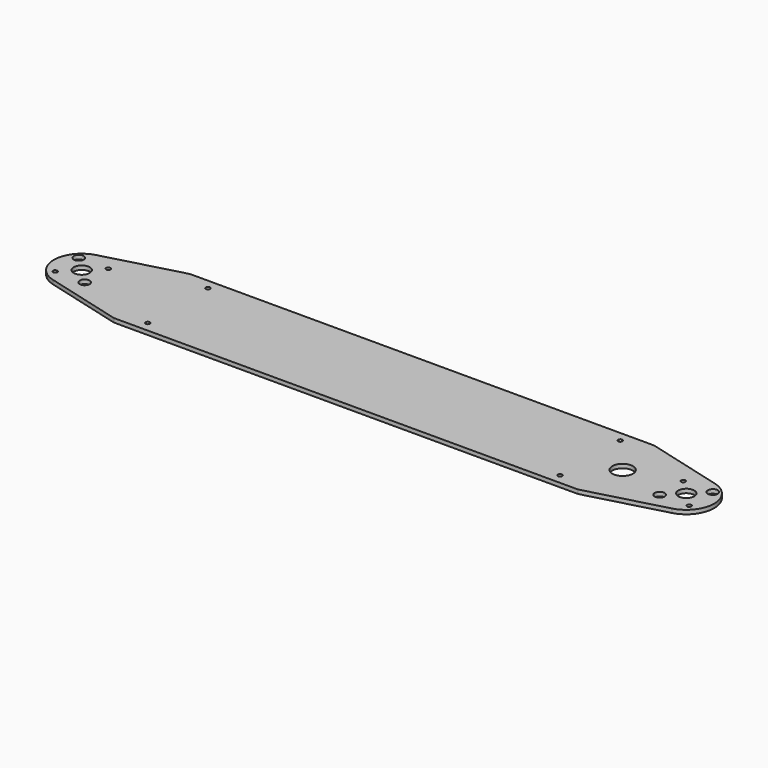
from build123d import *

# Parameters (mm, degrees)
F0_R     = 1.7272
F0_R_2   = 3.96875
F0_R_3   = 6.35
F0_R_4   = 8.221183
F1_DEPTH = 3.175


with BuildPart() as f1:
    # F0 (on Top) → F1 (new body)
    with BuildSketch(Plane.XY):
        with BuildLine():
            Line((-426.540354, 38.03015), (-488.352253, 21.467701))
            ThreePointArc((-488.352253, 21.467701), (-504.825, 0), (-488.352253, -21.467701))
            Line((-488.352253, -21.467701), (-426.540354, -38.03015))
            Line((-426.540354, -38.03015), (-420.190354, -38.03015))
            Line((-420.190354, -38.03015), (-62.409646, -38.03015))
            Line((-62.409646, -38.03015), (-56.059646, -38.03015))
            Line((-56.059646, -38.03015), (5.752253, -21.467701))
            ThreePointArc((5.752253, -21.467701), (22.225, 0), (5.752253, 21.467701))
            Line((5.752253, 21.467701), (-56.059646, 38.03015))
            Line((-56.059646, 38.03015), (-62.409646, 38.03015))
            Line((-62.409646, 38.03015), (-420.190354, 38.03015))
            Line((-420.190354, 38.03015), (-426.540354, 38.03015))
        make_face()
        with Locations((-405.902854, -30.09265)):
            Circle(F0_R, mode=Mode.SUBTRACT)
        with Locations((-494.386586, -11.786586)):
            Circle(F0_R, mode=Mode.SUBTRACT)
        with Locations((-470.813414, -11.786586)):
            Circle(F0_R_2, mode=Mode.SUBTRACT)
        with Locations((-76.697146, -30.09265)):
            Circle(F0_R, mode=Mode.SUBTRACT)
        with Locations((-11.786586, -11.786586)):
            Circle(F0_R_2, mode=Mode.SUBTRACT)
        with Locations((11.786586, -11.786586)):
            Circle(F0_R, mode=Mode.SUBTRACT)
        with Locations((-482.6, 0)):
            Circle(F0_R_3, mode=Mode.SUBTRACT)
        with Locations((-494.386586, 11.786586)):
            Circle(F0_R_2, mode=Mode.SUBTRACT)
        with Locations((-470.813414, 11.786586)):
            Circle(F0_R, mode=Mode.SUBTRACT)
        with Locations((-405.902854, 30.09265)):
            Circle(F0_R, mode=Mode.SUBTRACT)
        with Locations((-50.8, 0)):
            Circle(F0_R_4, mode=Mode.SUBTRACT)
        Circle(F0_R_3, mode=Mode.SUBTRACT)
        with Locations((-11.786586, 11.786586)):
            Circle(F0_R, mode=Mode.SUBTRACT)
        with Locations((11.786586, 11.786586)):
            Circle(F0_R_2, mode=Mode.SUBTRACT)
        with Locations((-76.697146, 30.09265)):
            Circle(F0_R, mode=Mode.SUBTRACT)
    extrude(amount=F1_DEPTH)


solid = f1.part
